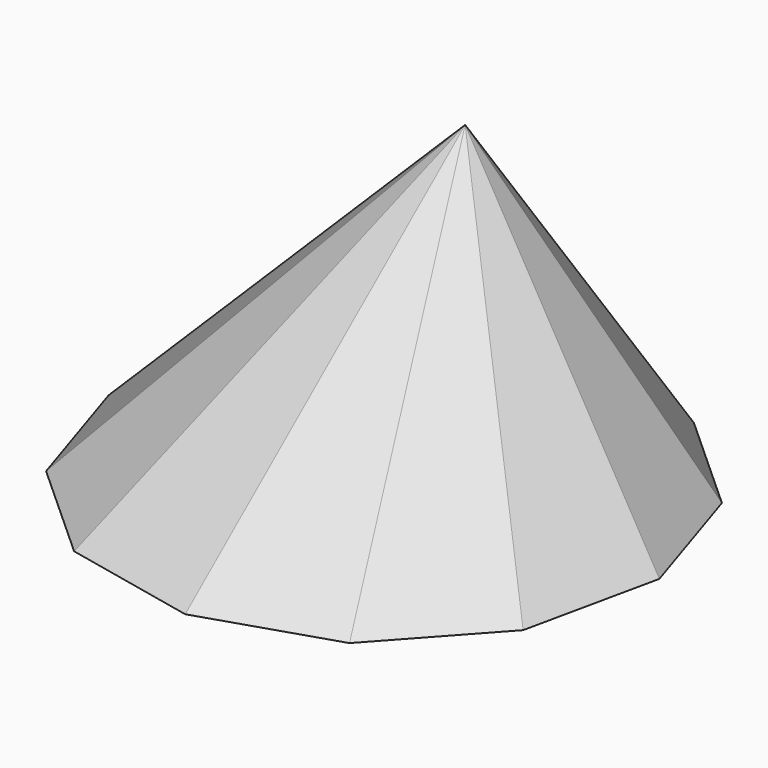
from build123d import *


with BuildPart() as f3:
    # F0 (on Top) → F3 section 0
    with BuildSketch(Plane.XY, mode=Mode.PRIVATE) as f3_s0:
        Polygon((137.427947, 6.804655), (115.613766, 74.606977), (62.82097, 122.418421), (-6.804655, 137.427947), (-74.606977, 115.613766), (-122.418421, 62.82097), (-137.427947, -6.804655), (-115.613766, -74.606977), (-62.82097, -122.418421), (6.804655, -137.427947), (74.606977, -115.613766), (122.418421, -62.82097), align=None)
    loft([Vertex(10.073566, 40.029168, 152.4), f3_s0.sketch])


solid = f3.part
